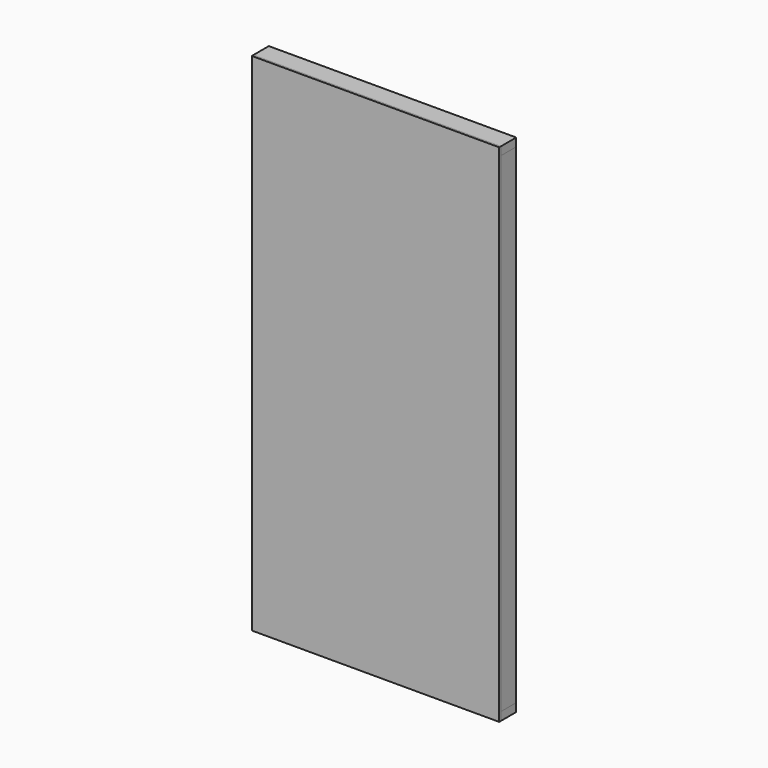
from build123d import *

# Parameters (mm, degrees)
F1_DEPTH = 44.45
F0_W     = 38.1
F0_H     = 2260.6
F2_DEPTH = 44.45
F3_W     = 1143
F3_H     = 2336.8
F4_DEPTH = 9.525


with BuildPart() as f1:
    # F0 (on Front) → F1 (new body, symmetric)
    with BuildSketch(Plane.XZ):
        Polygon((-571.5, 1130.3), (-533.4, 1130.3), (-165.1, 1130.3), (-127, 1130.3), (241.3, 1130.3), (279.4, 1130.3), (533.4, 1130.3), (571.5, 1130.3), (571.5, 1168.4), (-571.5, 1168.4), align=None)
        Polygon((-165.1, -1130.3), (-533.4, -1130.3), (-571.5, -1130.3), (-571.5, -1168.4), (571.5, -1168.4), (571.5, -1130.3), (533.4, -1130.3), (279.4, -1130.3), (241.3, -1130.3), (-127, -1130.3), align=None)
    extrude(amount=F1_DEPTH, both=True)


with BuildPart() as f2:
    # F0 (on Front) → F2 (new body, symmetric)
    with BuildSketch(Plane.XZ):
        with Locations((-552.45, 0)):
            Rectangle(F0_W, F0_H)
        with Locations((-146.05, 0)):
            Rectangle(F0_W, F0_H)
        with Locations((260.35, 0)):
            Rectangle(F0_W, F0_H)
        with Locations((552.45, 0)):
            Rectangle(F0_W, F0_H)
    extrude(amount=F2_DEPTH, both=True)


with BuildPart() as f4:
    # F3 (on face) → F4 (new body)
    with BuildSketch(Plane.XZ.offset(44.45)):
        Rectangle(F3_W, F3_H)
    extrude(amount=F4_DEPTH)


solid = Compound([f1.part, f2.part, f4.part])
